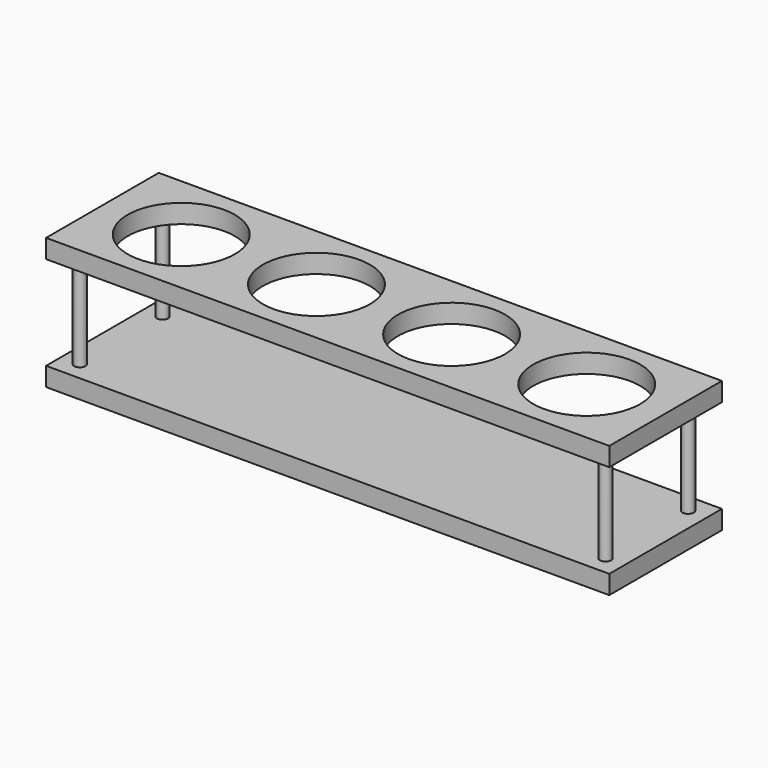
from build123d import *

# Parameters (mm, degrees)
F0_W     = 300
F0_H     = 75
F1_DEPTH = 10
F3_W     = 300
F3_H     = 75
F3_R     = 28.5
F4_DEPTH = 10
F5_R     = 3
F6_DEPTH = 50


with BuildPart() as f1:
    # F0 (on Top) → F1 (new body)
    with BuildSketch(Plane.XY):
        Rectangle(F0_W, F0_H)
    extrude(amount=F1_DEPTH)


with BuildPart() as f4:
    # F3 (on offset) → F4 (new body)
    with BuildSketch(Plane.XY.offset(60)):
        Rectangle(F3_W, F3_H)
        with Locations((-108, 0)):
            Circle(F3_R, mode=Mode.SUBTRACT)
        with Locations((-36, 0)):
            Circle(F3_R, mode=Mode.SUBTRACT)
        with Locations((36, 0)):
            Circle(F3_R, mode=Mode.SUBTRACT)
        with Locations((108, 0)):
            Circle(F3_R, mode=Mode.SUBTRACT)
    extrude(amount=F4_DEPTH)


with BuildPart() as f6:
    # F5 (on face) → F6 (new body, through all)
    with BuildSketch(Plane.XY.offset(10)):
        with Locations((-140, -27.5)):
            Circle(F5_R)
        with Locations((-140, 27.5)):
            Circle(F5_R)
        with Locations((140, 27.5)):
            Circle(F5_R)
        with Locations((140, -27.5)):
            Circle(F5_R)
    extrude(amount=F6_DEPTH)


solid = Compound([f1.part, f4.part, f6.part])
